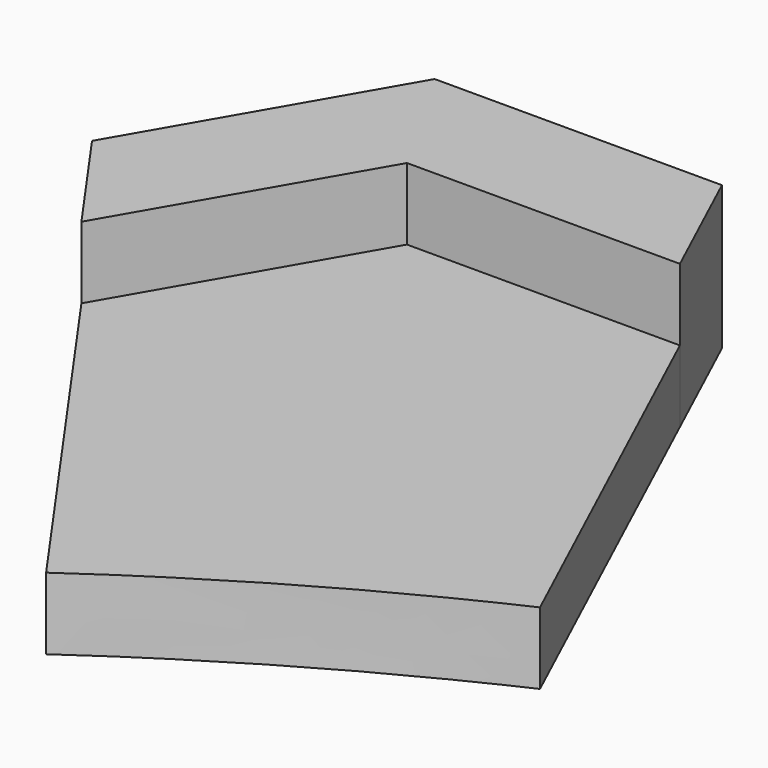
from build123d import *

# Parameters (mm, degrees)
F1_DEPTH = 5
F2_DEPTH = 10


with BuildPart() as f1:
    # F0 (on Top) → F1 (new body)
    with BuildSketch(Plane.XY):
        with BuildLine():
            Line((-95.2627944163, 165), (-104.7641049444, 148.5432474269))
            Line((-104.7641049444, 148.5432474269), (-86.4529288886, 122.5801414854))
            add(Edge.make_bspline(
                [(-86.4529288886, 122.5801414854), (-85.6951969131, 123.0750714308), (-84.0908555257, 124.2507637212), (-80.6425221001, 126.4963027907), (-77.0229378108, 128.7455873666), (-73.0916916126, 131.0039271119), (-70.6061051362, 132.3499551923), (-68.0658554557, 133.683088699), (-64.6033598742, 135.3979190976), (-63.4054828592, 135.9240095399), (-62.9310520816, 136.1605033918)],
                knots=[0, 0, 0, 0, 0.1154936044, 0.2536454465, 0.3976404458, 0.5428572744, 0.6569094368, 0.7738664184, 0.9083242192, 1, 1, 1, 1], degree=3))
            Line((-62.9310520816, 136.1605033918), (-76.2601733601, 165))
            Line((-76.2601733601, 165), (-95.2627944163, 165))
        make_face()
    extrude(amount=F1_DEPTH)

    # F0 (on Top) → F2 (join)
    with BuildSketch(Plane.XY):
        Polygon((-80.2627944163, 173.6602540378), (-100.2627944163, 173.6602540378), (-95.2627944163, 165), (-76.2601733601, 165), align=None)
        Polygon((-100.2627944163, 173.6602540378), (-110.2627944163, 156.3397459622), (-104.7641049444, 148.5432474269), (-95.2627944163, 165), align=None)
    extrude(amount=F2_DEPTH)


solid = f1.part
